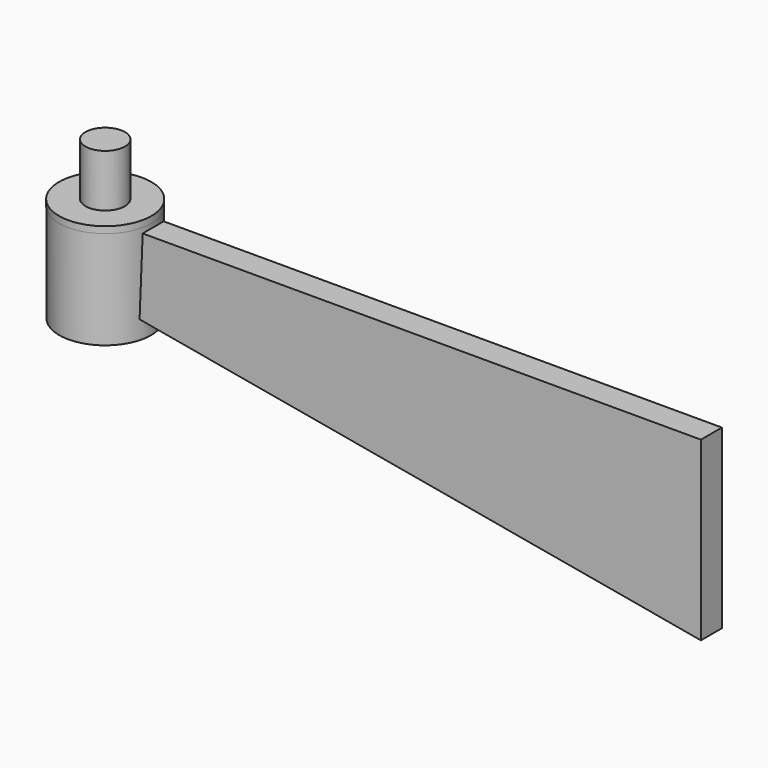
from build123d import *

# Parameters (mm, degrees)
F0_R          = 22.225
F0_R_2        = 19.05
F1_DEPTH      = 47.625
F2_R          = 22.328019
F3_DEPTH      = 3.16947
F4_R          = 9.525
F5_DEPTH      = 25.4
F5_DEPTH_BACK = 25.4
F7_DEPTH      = 6.35
F7_DEPTH_BACK = 6.35


with BuildPart() as f1:
    # F0 (on Top) → F1 (new body)
    with BuildSketch(Plane.XY):
        Circle(F0_R)
        Circle(F0_R_2, mode=Mode.SUBTRACT)
    extrude(amount=F1_DEPTH)

    # F2 (on face) → F3 (join)
    with BuildSketch(Plane.XY.offset(47.625)):
        Circle(F2_R)
    extrude(amount=F3_DEPTH)

    # F4 (on face) → F5 (join, two sides)
    with BuildSketch(Plane.XY.offset(50.79447)) as f5_sk:
        Circle(F4_R)
    extrude(amount=F5_DEPTH)
    extrude(f5_sk.sketch, amount=-F5_DEPTH_BACK)

    # F6 (on Front) → F7 (join, two sides)
    with BuildSketch(Plane.XZ) as f7_sk:
        Polygon((293.185323, 46.228472), (23.211915, 46.228472), (21.699471, 9.1733), (293.185323, -39.225295), align=None)
    extrude(amount=F7_DEPTH)
    extrude(f7_sk.sketch, amount=-F7_DEPTH_BACK)


solid = f1.part
